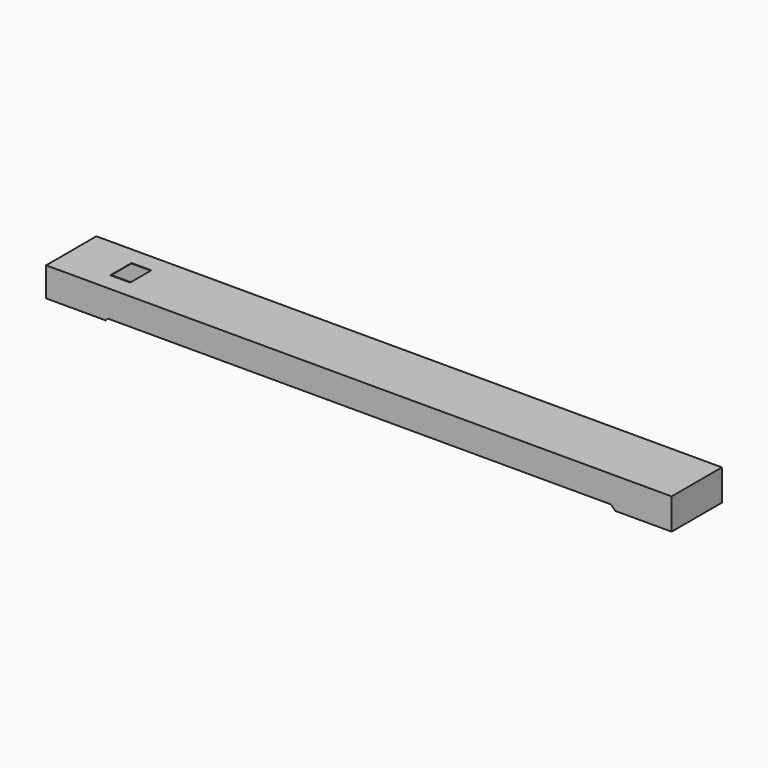
from build123d import *

# Parameters (mm, degrees)
SKETCH061_W      = 300
SKETCH061_H      = 400
EXTRUDE035_DEPTH = 25
EXTRUDE034_DEPTH = 472
EXTRUDE012_DEPTH = 475


with BuildPart() as extrude035:
    # Sketch061 (on Face3 of Cut005) → Extrude035 (new body, symmetric)
    with BuildSketch(Plane.XY.offset(351)):
        with Locations((300, 0)):
            Rectangle(SKETCH061_W, SKETCH061_H)
    extrude(amount=EXTRUDE035_DEPTH, both=True)


with BuildPart() as extrude034:
    # Sketch060 → Extrude034 (new body, symmetric)
    with BuildSketch(Plane.XZ):
        Polygon((-597, -89), (-597, 348), (8847, 348), (8847, -119), (8000, -119), (7935, -54), (335, -54), (300, -89), align=None)
    extrude(amount=EXTRUDE034_DEPTH, both=True)


with BuildPart() as extrude034_1:
    # Extrude034 placement: moved
    add(extrude034.part.moved(Location((0, 0, -3))))


with BuildPart() as cut007:
    # Sketch020 → Extrude012 (new body, symmetric)
    with BuildSketch(Plane.XZ):
        Polygon((-600, -89), (-600, 351), (8850, 351), (8850, -119), (8000, -119), (7935, -54), (335, -54), (300, -89), align=None)
    extrude(amount=EXTRUDE012_DEPTH, both=True)

    # Cut005: cut Extrude034
    add(extrude034_1.part, mode=Mode.SUBTRACT)

    # Cut007: cut Extrude035
    add(extrude035.part, mode=Mode.SUBTRACT)


solid = cut007.part
